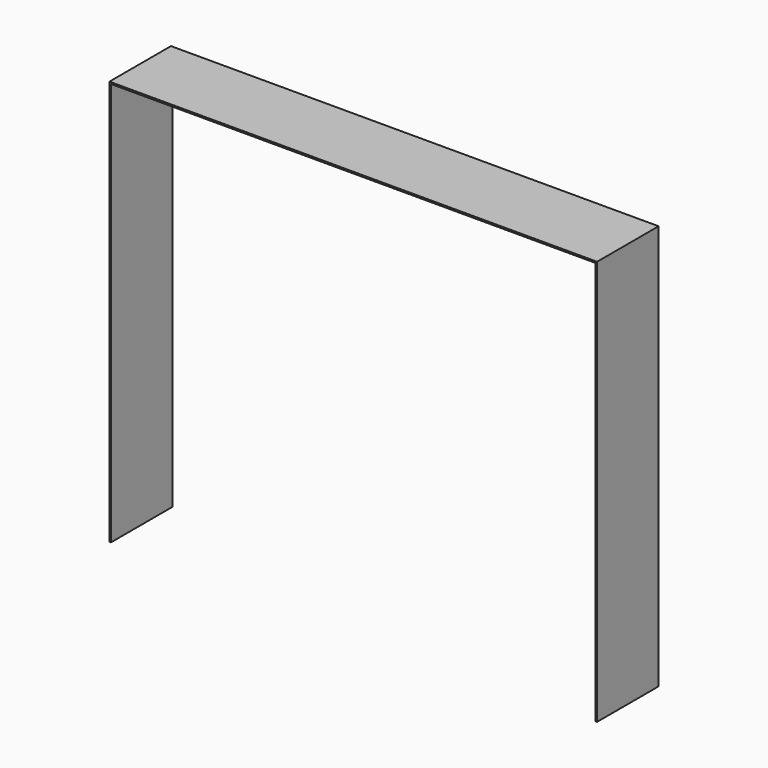
from build123d import *

# Parameters (mm, degrees)
F0_W     = 30.375
F0_H     = 4.824265
F1_DEPTH = 0.1
F2_W     = 0.1
F2_H     = 4.824265
F3_DEPTH = 25.4


with BuildPart() as f1:
    # F0 (on Top) → F1 (new body)
    with BuildSketch(Plane.XY):
        with Locations((0, 7.262886)):
            Rectangle(F0_W, F0_H)
    extrude(amount=F1_DEPTH)

    # F2 (on face) → F3 (join)
    with BuildSketch(Plane.XY.offset(0.1)):
        with Locations((15.2375, 7.262886)):
            Rectangle(F2_W, F2_H)
        with Locations((-15.2375, 7.262886)):
            Rectangle(F2_W, F2_H)
    extrude(amount=-F3_DEPTH)


solid = f1.part
